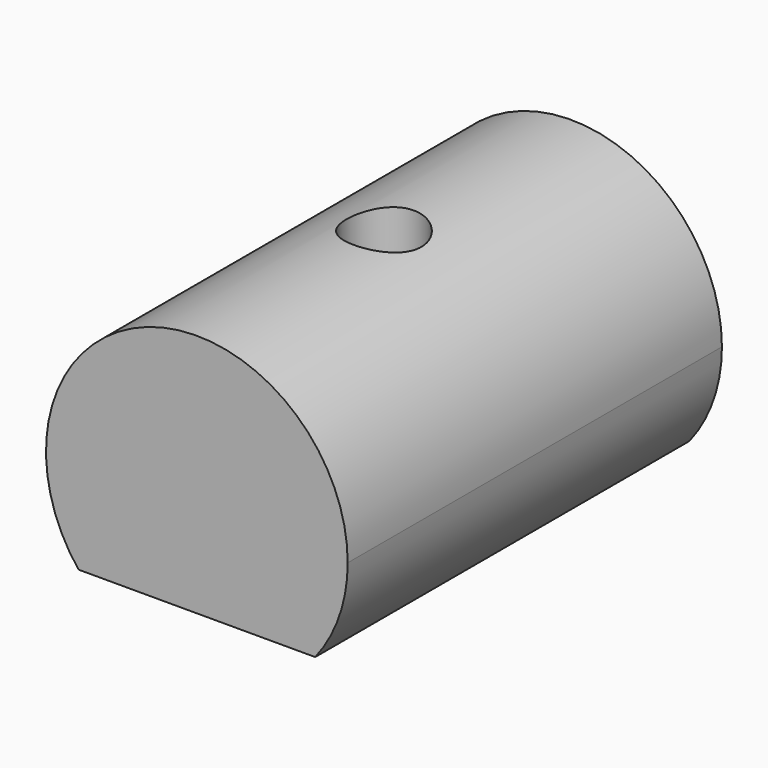
from build123d import *

# Parameters (mm, degrees)
SKETCH009_R     = 6.45
PAD004_DEPTH    = 20
SKETCH010_R     = 1.6
POCKET005_DEPTH = 20
POCKET006_DEPTH = 10
SKETCH012_W     = 20
SKETCH012_H     = 6
POCKET007_DEPTH = 21


with BuildPart() as part:
    # Sketch009 → Pad004 (new body)
    with BuildSketch(Plane.XZ):
        with Locations((-30, 10)):
            Circle(SKETCH009_R)
    extrude(amount=PAD004_DEPTH)

    # Sketch010 → Pocket005 (cut)
    with BuildSketch(Plane.XY):
        with Locations((-30, -10)):
            Circle(SKETCH010_R)
    extrude(amount=POCKET005_DEPTH, mode=Mode.SUBTRACT)

    # Sketch011 → Pocket006 (cut)
    with BuildSketch(Plane.XY.offset(14)):
        Polygon((-27.25, -8.412287), (-30, -6.824574), (-32.75, -8.412287), (-32.75, -11.587713), (-30, -13.175426), (-27.25, -11.587713), align=None)
    extrude(amount=-POCKET006_DEPTH, mode=Mode.SUBTRACT)

    # Sketch012 → Pocket007 (cut)
    with BuildSketch(Plane.XZ):
        with Locations((-30.92, 3)):
            Rectangle(SKETCH012_W, SKETCH012_H)
    extrude(amount=POCKET007_DEPTH, mode=Mode.SUBTRACT)


solid = part.part
